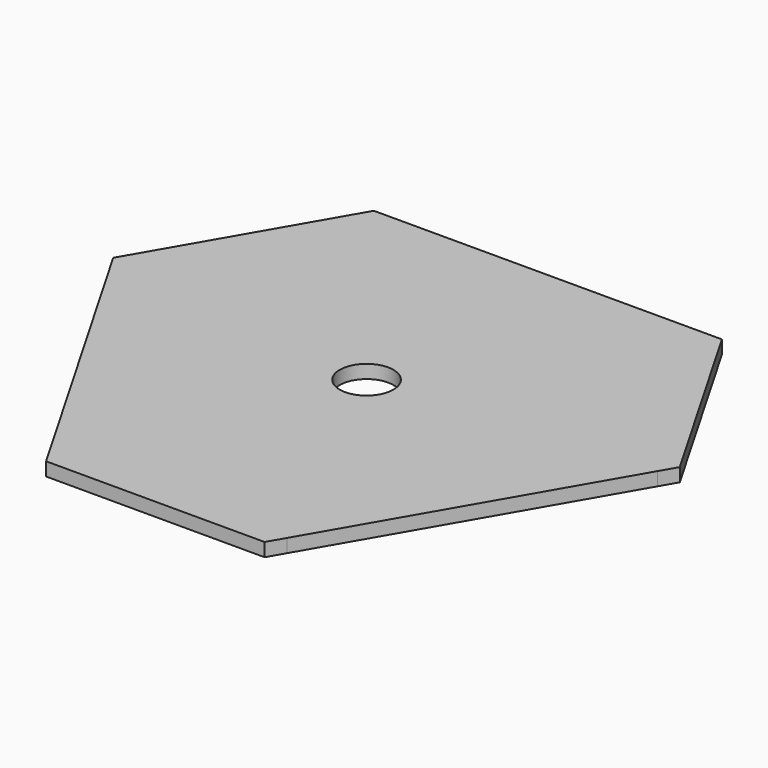
from build123d import *

# Parameters (mm, degrees)
F0_R     = 12.7
F1_DEPTH = 6.35


with BuildPart() as f1:
    # F0 (on Top) → F1 (new body)
    with BuildSketch(Plane.XY):
        Polygon((86.252718, 34.973921), (-60.852718, 34.973921), (-116.947282, -62.184713), (-43.394563, -189.581758), (68.794563, -189.581758), (142.347282, -62.184713), align=None)
        with Locations((12.7, -72.264184)):
            Circle(F0_R, mode=Mode.SUBTRACT)
        Polygon((-116.947282, -62.184713), (-60.852718, 34.973921), (-69.651536, 34.973921), (-121.346691, -54.564713), align=None)
        Polygon((95.051536, 34.973921), (86.252718, 34.973921), (142.347282, -62.184713), (146.746691, -54.564713), align=None)
        Polygon((68.794563, -189.581758), (-43.394563, -189.581758), (-38.995154, -197.201758), (64.395154, -197.201758), align=None)
    extrude(amount=F1_DEPTH)


solid = f1.part
